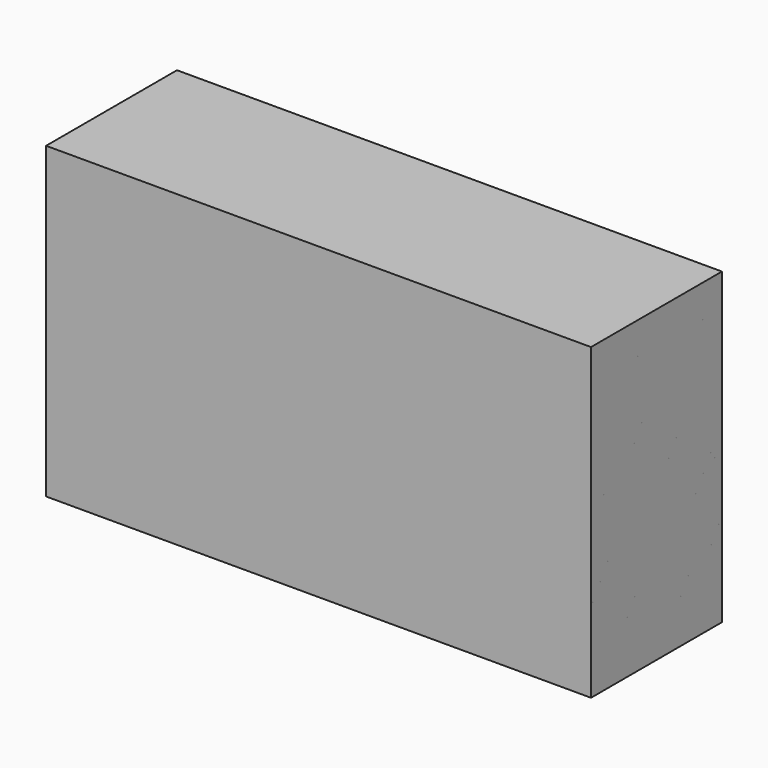
from build123d import *

# Parameters (mm, degrees)
F1_W     = 57.8592605889
F1_H     = 41.0552509129
F2_DEPTH = 25.4
F0_W     = 59.1959431767
F0_H     = 47.9296185076
F3_DEPTH = 25.4


with BuildPart() as f2:
    # F1 (on face) → F2 (new body)
    with BuildSketch(Plane.XZ):
        with Locations((-28.9296302944, 24.3467185646)):
            Rectangle(F1_W, F1_H)
    extrude(amount=F2_DEPTH)


with BuildPart() as f2b:
    # F0 (on Front) → F2, piece 2 (new body)
    with BuildSketch(Plane.XZ):
        with Locations((-29.5979715884, 23.9648092538)):
            Rectangle(F0_W, F0_H)
    extrude(amount=F2_DEPTH)

    # F3 (add): a face of the model
    f3_faces = [f2b.faces().sort_by_distance(p)[0] for p in [
        (-59.1959431767, -12.7, 23.9648092538),
    ]]
    extrude(f3_faces, amount=F3_DEPTH)


solid = Compound([f2.part, f2b.part])
